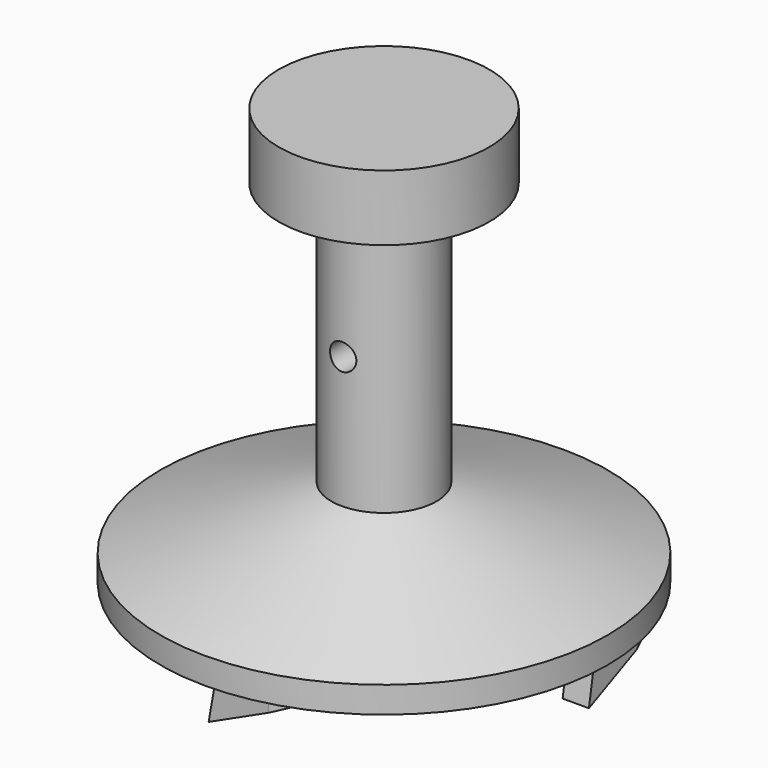
from build123d import *

# Parameters (mm, degrees)
F5_DEPTH  = 2.54
F7_DEPTH  = 2.54
F9_DEPTH  = 2.54
F11_DEPTH = 2.54
F14_R     = 1.27
F15_DEPTH = 30.0736
F16_R     = 42.413221
F16_R_2   = 20.955
F17_DEPTH = 25.4


with BuildPart() as f5:
    # F4 (on offset) → F5 (new body)
    with BuildSketch(Plane.YZ.offset(20.32)):
        Polygon((7.62, 0), (0, 0), (-0.671806, -3.81), align=None)
    extrude(amount=-F5_DEPTH)



with BuildPart() as f7:
    # F6 (on offset) → F7 (new body)
    with BuildSketch(Plane.YZ.offset(-20.32)):
        Polygon((0.671806, -3.81), (0, 0), (-7.62, 0), align=None)
    extrude(amount=F7_DEPTH)


with BuildPart() as f9:
    # F8 (on offset) → F9 (new body)
    with BuildSketch(Plane.XZ.offset(-20.32)):
        Polygon((0.671806, -3.81), (0, 0), (-7.62, 0), align=None)
    extrude(amount=F9_DEPTH)


with BuildPart() as f11:
    # F10 (on offset) → F11 (new body)
    with BuildSketch(Plane.XZ.offset(20.32)):
        Polygon((7.62, 0), (0, 0), (-0.671806, -3.81), align=None)
    extrude(amount=-F11_DEPTH)


with BuildPart() as f5_1:
    add(f5.part)

    add(f7.part)  # F13 merges F7

    add(f9.part)  # F13 merges F9

    add(f11.part)  # F13 merges F11
    # F12 (on Front) → F13 (revolve)
    with BuildSketch(Plane.XZ):
        Polygon((-21.59, 0), (-16.51, 0), (0, 2.911158), (0, 40.299149), (-10.16, 40.299149), (-10.16, 33.949149), (-5.08, 33.949149), (-5.08, 8.549149), (-21.59, 2.54), align=None)
    revolve(axis=Axis((0, 0, 23.632418), (0, 0, 1)))

    # F14 (on offset) → F15 (cut)
    with BuildSketch(Plane.XZ.offset(20.32)):
        with Locations((0, 21.249149)):
            Circle(F14_R)
    extrude(amount=-F15_DEPTH, mode=Mode.SUBTRACT)

    # F16 (on Top) → F17 (cut)
    with BuildSketch(Plane.XY):
        Circle(F16_R)
        Circle(F16_R_2, mode=Mode.SUBTRACT)
    extrude(amount=-F17_DEPTH, mode=Mode.SUBTRACT)


solid = f5_1.part
